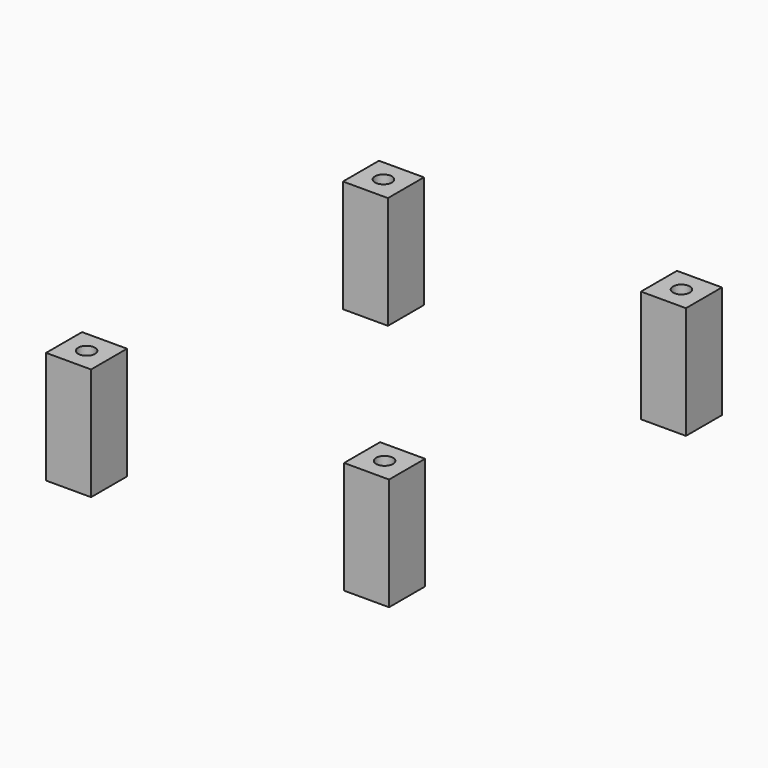
from build123d import *

# Parameters (mm, degrees)
CYLINDER050_R     = 1.5
CYLINDER050_DEPTH = 8
BOX039_W          = 8
BOX039_H          = 8
BOX039_DEPTH      = 20
CYLINDER049_R     = 1.5
CYLINDER049_DEPTH = 8
BOX038_W          = 8
BOX038_H          = 8
BOX038_DEPTH      = 20
CYLINDER048_R     = 1.5
CYLINDER048_DEPTH = 8
BOX037_W          = 8
BOX037_H          = 8
BOX037_DEPTH      = 20
CYLINDER046_R     = 1.5
CYLINDER046_DEPTH = 8
BOX036_W          = 8
BOX036_H          = 8
BOX036_DEPTH      = 20


with BuildPart() as cylinder028:
    # Cylinder050 → Cylinder050 (new body)
    with BuildSketch(Plane(origin=(4, 4, 12), x_dir=(1, 0, 0), z_dir=(0, 0, 1))):
        Circle(CYLINDER050_R)
    extrude(amount=CYLINDER050_DEPTH)


with BuildPart() as fuss4:
    # Box039 → Box039 (new body)
    with BuildSketch(Plane.XY):
        with Locations((4, 4)):
            Rectangle(BOX039_W, BOX039_H)
    extrude(amount=BOX039_DEPTH)

    # Cut042: cut Cylinder028
    add(cylinder028.part, mode=Mode.SUBTRACT)


with BuildPart() as fuss4_1:
    # Cut042 placement: moved
    add(fuss4.part.moved(Location((94, 84, 2))))


with BuildPart() as cylinder027:
    # Cylinder049 → Cylinder049 (new body)
    with BuildSketch(Plane(origin=(4, 4, 12), x_dir=(1, 0, 0), z_dir=(0, 0, 1))):
        Circle(CYLINDER049_R)
    extrude(amount=CYLINDER049_DEPTH)


with BuildPart() as fuss3:
    # Box038 → Box038 (new body)
    with BuildSketch(Plane.XY):
        with Locations((4, 4)):
            Rectangle(BOX038_W, BOX038_H)
    extrude(amount=BOX038_DEPTH)

    # Cut041: cut Cylinder027
    add(cylinder027.part, mode=Mode.SUBTRACT)


with BuildPart() as fuss3_1:
    # Cut041 placement: moved
    add(fuss3.part.moved(Location((41, 84, 2))))


with BuildPart() as cylinder026:
    # Cylinder048 → Cylinder048 (new body)
    with BuildSketch(Plane(origin=(4, 4, 12), x_dir=(1, 0, 0), z_dir=(0, 0, 1))):
        Circle(CYLINDER048_R)
    extrude(amount=CYLINDER048_DEPTH)


with BuildPart() as fuss2:
    # Box037 → Box037 (new body)
    with BuildSketch(Plane.XY):
        with Locations((4, 4)):
            Rectangle(BOX037_W, BOX037_H)
    extrude(amount=BOX037_DEPTH)

    # Cut040: cut Cylinder026
    add(cylinder026.part, mode=Mode.SUBTRACT)


with BuildPart() as fuss2_1:
    # Cut040 placement: moved
    add(fuss2.part.moved(Location((94, 18, 2))))


with BuildPart() as cylinder024:
    # Cylinder046 → Cylinder046 (new body)
    with BuildSketch(Plane(origin=(4, 4, 12), x_dir=(1, 0, 0), z_dir=(0, 0, 1))):
        Circle(CYLINDER046_R)
    extrude(amount=CYLINDER046_DEPTH)


with BuildPart() as fuesse:
    # Box036 → Box036 (new body)
    with BuildSketch(Plane.XY):
        with Locations((4, 4)):
            Rectangle(BOX036_W, BOX036_H)
    extrude(amount=BOX036_DEPTH)

    # Cut039: cut Cylinder024
    add(cylinder024.part, mode=Mode.SUBTRACT)


with BuildPart() as fuesse_1:
    # Cut039 placement: moved
    add(fuesse.part.moved(Location((41, 18, 2))))

    # Fusion021: union Fuss4, Fuss3, Fuss2
    add(fuss4_1.part)
    add(fuss3_1.part)
    add(fuss2_1.part)


with BuildPart() as fuesse_2:
    # Fusion021 placement: moved
    add(fuesse_1.part.moved(Location((7, 0, 0))))


solid = fuesse_2.part
